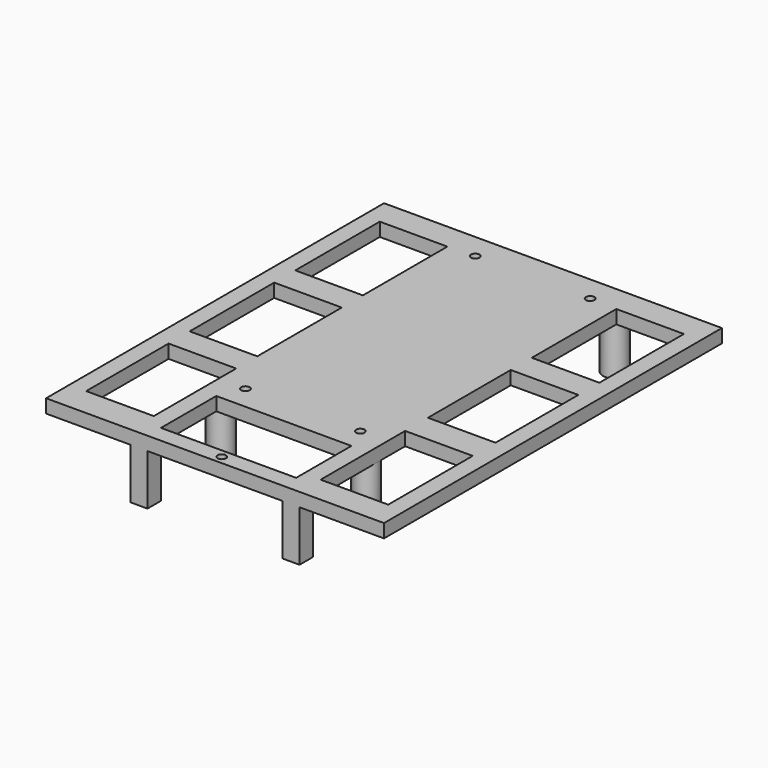
from build123d import *

# Parameters (mm, degrees)
F4_R            = 3.5
F5_DEPTH        = 4
F6_D            = 2.5
F6_CBORE_D      = 4.5
F6_CBORE_DEPTH  = 2
F7_DEPTH        = 15
F9_D            = 3
F9_DEPTH        = 13.5
F9_CSINK_D      = 4
F9_CSINK_ANGLE  = 90
F9_TIP          = 0.9012909285
F11_D           = 3
F11_DEPTH       = 13.5
F11_CSINK_D     = 4
F11_CSINK_ANGLE = 90
F11_TIP         = 0.9012909285
F13_D           = 3
F13_DEPTH       = 13.5
F13_CSINK_D     = 4
F13_CSINK_ANGLE = 90
F13_TIP         = 0.9012909285
F15_D           = 3
F15_DEPTH       = 13.5
F15_CSINK_D     = 4
F15_CSINK_ANGLE = 90
F15_TIP         = 0.9012909285
F16_DEPTH       = 25
F18_DEPTH       = 4
F20_DEPTH       = 25
F21_DEPTH       = 25
F22_W           = 20
F22_H           = 30.4843550548
F22_H_2         = 31.25
F22_H_3         = 30.620081059
F23_DEPTH       = 4
F19_W           = 5
F19_H           = 5
F24_DEPTH       = 15


with BuildPart() as f5:
    # F4 (on Top) → F5 (new body)
    with BuildSketch(Plane.XY):
        Polygon((27.5709562153, 77.495081059), (-22.4290437847, 77.495081059), (-22.4290437847, 73.495081059), (-22.4290437847, -18.5049188996), (-22.4290437847, -22.504918941), (27.5709562153, -22.504918941), (27.5709562153, -18.504918941), (27.5709562153, 73.495081059), align=None)
        with BuildLine():
            ThreePointArc((-15.4290437847, -18.504918941), (-18.9290438054, -22.004918941), (-22.4290437847, -18.5049188996))
            ThreePointArc((-22.4290437847, -18.5049188996), (-18.9290437641, -15.004918941), (-15.4290437847, -18.504918941))
        make_face(mode=Mode.SUBTRACT)
        with Locations((24.0709562153, -18.504918941)):
            Circle(F4_R, mode=Mode.SUBTRACT)
        with BuildLine():
            ThreePointArc((-15.4290437847, 73.495081059), (-18.9290437847, 69.995081059), (-22.4290437847, 73.495081059))
            ThreePointArc((-22.4290437847, 73.495081059), (-18.9290437847, 76.995081059), (-15.4290437847, 73.495081059))
        make_face(mode=Mode.SUBTRACT)
        with Locations((24.0709562153, 73.495081059)):
            Circle(F4_R, mode=Mode.SUBTRACT)
        with BuildLine():
            ThreePointArc((-15.4290437847, -18.504918941), (-18.9290437641, -15.004918941), (-22.4290437847, -18.5049188996))
            ThreePointArc((-22.4290437847, -18.5049188996), (-18.9290438054, -22.004918941), (-15.4290437847, -18.504918941))
        make_face()
        with Locations((24.0709562153, -18.504918941)):
            Circle(F4_R)
        with BuildLine():
            ThreePointArc((-15.4290437847, 73.495081059), (-18.9290437847, 76.995081059), (-22.4290437847, 73.495081059))
            ThreePointArc((-22.4290437847, 73.495081059), (-18.9290437847, 69.995081059), (-15.4290437847, 73.495081059))
        make_face()
        with Locations((24.0709562153, 73.495081059)):
            Circle(F4_R)
    extrude(amount=F5_DEPTH)

    # F6 (through all)
    with Locations(Plane(origin=(0, 0, 0), x_dir=(1, 0, 0), z_dir=(0, 0, -1))):
        with Locations((19.5709562153, -69.995081059), (19.5709562153, 15.004918941), (-14.4290437847, 15.004918941), (-14.4290437847, -69.995081059)):
            CounterBoreHole(F6_D / 2, F6_CBORE_D / 2, F6_CBORE_DEPTH)

    # F4 (on Top) → F7 (join)
    with BuildSketch(Plane.XY):
        with BuildLine():
            ThreePointArc((-15.4290437847, -18.504918941), (-18.9290437641, -15.004918941), (-22.4290437847, -18.5049188996))
            ThreePointArc((-22.4290437847, -18.5049188996), (-18.9290438054, -22.004918941), (-15.4290437847, -18.504918941))
        make_face()
        with Locations((24.0709562153, -18.504918941)):
            Circle(F4_R)
        with BuildLine():
            ThreePointArc((-15.4290437847, 73.495081059), (-18.9290437847, 76.995081059), (-22.4290437847, 73.495081059))
            ThreePointArc((-22.4290437847, 73.495081059), (-18.9290437847, 69.995081059), (-15.4290437847, 73.495081059))
        make_face()
        with Locations((24.0709562153, 73.495081059)):
            Circle(F4_R)
    extrude(amount=-F7_DEPTH)

    # F9
    with Locations(Plane(origin=(0, 0, -15), x_dir=(1, 0, 0), z_dir=(0, 0, -1))):
        with Locations((-18.9290437847, -73.495081059)):
            CounterSinkHole(F9_D / 2, F9_CSINK_D / 2, depth=F9_DEPTH, counter_sink_angle=F9_CSINK_ANGLE)
            with Locations((0, 0, -(F9_DEPTH + F9_TIP / 2))):  # 118° drill point
                Cone(0, F9_D / 2, F9_TIP, mode=Mode.SUBTRACT)

    # F11
    with Locations(Plane(origin=(0, 0, -15), x_dir=(1, 0, 0), z_dir=(0, 0, -1))):
        with Locations((-18.9290437847, 18.504918941)):
            CounterSinkHole(F11_D / 2, F11_CSINK_D / 2, depth=F11_DEPTH, counter_sink_angle=F11_CSINK_ANGLE)
            with Locations((0, 0, -(F11_DEPTH + F11_TIP / 2))):  # 118° drill point
                Cone(0, F11_D / 2, F11_TIP, mode=Mode.SUBTRACT)

    # F13
    with Locations(Plane(origin=(0, 0, -15), x_dir=(1, 0, 0), z_dir=(0, 0, -1))):
        with Locations((24.0709562153, -73.495081059)):
            CounterSinkHole(F13_D / 2, F13_CSINK_D / 2, depth=F13_DEPTH, counter_sink_angle=F13_CSINK_ANGLE)
            with Locations((0, 0, -(F13_DEPTH + F13_TIP / 2))):  # 118° drill point
                Cone(0, F13_D / 2, F13_TIP, mode=Mode.SUBTRACT)

    # F15
    with Locations(Plane(origin=(0, 0, -15), x_dir=(1, 0, 0), z_dir=(0, 0, -1))):
        with Locations((24.0709562153, 18.504918941)):
            CounterSinkHole(F15_D / 2, F15_CSINK_D / 2, depth=F15_DEPTH, counter_sink_angle=F15_CSINK_ANGLE)
            with Locations((0, 0, -(F15_DEPTH + F15_TIP / 2))):  # 118° drill point
                Cone(0, F15_D / 2, F15_TIP, mode=Mode.SUBTRACT)

    # F16 (add): a face of the model
    f16_faces = [f5.faces().sort_by_distance(p)[0] for p in [
        (2.5709562153, -22.504918941, 2),
    ]]
    extrude(f16_faces, amount=F16_DEPTH)

    # F17 (on face) → F18 (cut)
    with BuildSketch(Plane.XY.offset(4)):
        Polygon((2.5709562153, -42.504918941), (22.5709562153, -42.504918941), (22.5709562153, -22.0463977089), (-17.4290437847, -22.0463977089), (-17.4290437847, -42.504918941), align=None)
        with BuildLine():
            Line((2.5709562153, -46.254918941), (2.5709562153, -43.754918941))
            ThreePointArc((2.5709562153, -43.754918941), (1.3209562153, -45.004918941), (2.5709562153, -46.254918941))
        make_face()
        with BuildLine():
            ThreePointArc((3.8209562153, -45.004918941), (3.4548396917, -44.1210354645), (2.5709562153, -43.754918941))
            Line((2.5709562153, -43.754918941), (2.5709562153, -46.254918941))
            ThreePointArc((2.5709562153, -46.254918941), (3.4548396917, -45.8888024175), (3.8209562153, -45.004918941))
        make_face()
    extrude(amount=-F18_DEPTH, mode=Mode.SUBTRACT)

    # F20 (add): a face of the model
    f20_faces = [f5.faces().sort_by_distance(p)[0] for p in [
        (27.5709562153, 14.995081059, 2),
    ]]
    extrude(f20_faces, amount=F20_DEPTH)

    # F21 (add): a face of the model
    f21_faces = [f5.faces().sort_by_distance(p)[0] for p in [
        (-22.4290437847, 14.995081059, 2),
    ]]
    extrude(f21_faces, amount=F21_DEPTH)

    # F22 (on face) → F23 (cut)
    with BuildSketch(Plane.XY.offset(4)):
        with Locations((-32.4290437847, -23.6845964684)):
            Rectangle(F22_W, F22_H)
        with Locations((-32.4290437847, 14.995081059)):
            Rectangle(F22_W, F22_H_2)
        with Locations((-32.4290437847, 54.057581059)):
            Rectangle(F22_W, F22_H_2)
        with Locations((37.5709562153, 54.057581059)):
            Rectangle(F22_W, F22_H_2)
        with Locations((37.5709562153, 15.3100405295)):
            Rectangle(F22_W, F22_H_3)
        with Locations((37.5709562153, -24.067418941)):
            Rectangle(F22_W, F22_H_2)
    extrude(amount=-F23_DEPTH, mode=Mode.SUBTRACT)

    # F19 (on face) → F24 (join)
    with BuildSketch(Plane(origin=(0, 0, 0), x_dir=(1, 0, 0), z_dir=(0, 0, -1))):
        with Locations((-19.9290437847, 45.004918941)):
            Rectangle(F19_W, F19_H)
        with Locations((25.0709562153, 45.004918941)):
            Rectangle(F19_W, F19_H)
    extrude(amount=F24_DEPTH)


solid = f5.part
